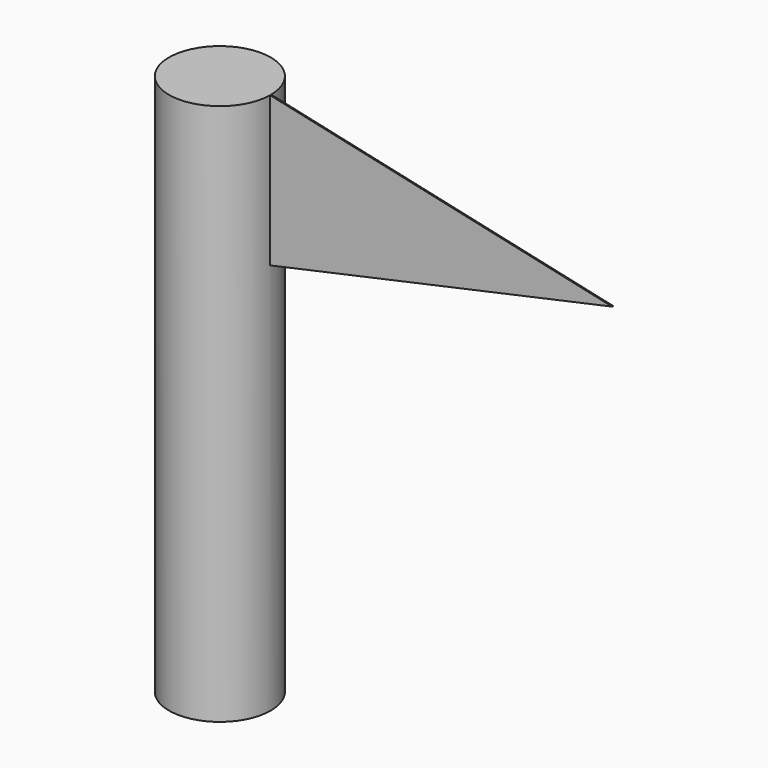
from build123d import *

# Parameters (mm, degrees)
F0_R     = 19.05
F1_DEPTH = 203.2
F3_DEPTH = 0.254


with BuildPart() as f1:
    # F0 (on Top) → F1 (new body)
    with BuildSketch(Plane.XY):
        Circle(F0_R)
    extrude(amount=F1_DEPTH)

    # F2 (on Front) → F3 (join, symmetric)
    with BuildSketch(Plane.XZ):
        Polygon((147.2438126802, 175.1202940941), (19.05, 203.2), (19.05, 147.0405881882), align=None)
        Polygon((19.05, 147.0405881882), (19.05, 203.2), (11.7504512891, 180.8726638556), align=None)
    extrude(amount=F3_DEPTH, both=True)


solid = f1.part
